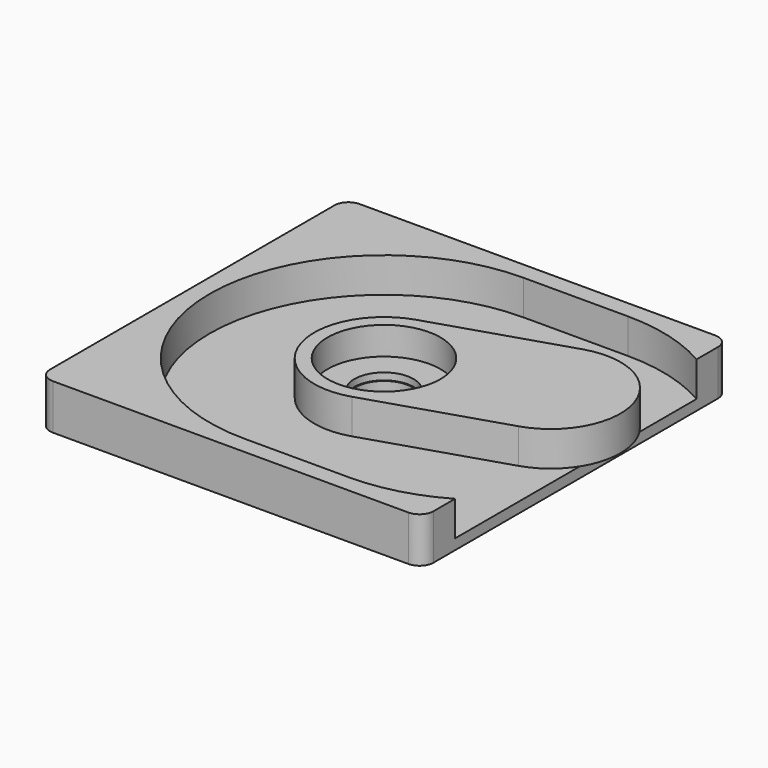
from build123d import *

# Parameters (mm, degrees)
PAD_DEPTH        = 5
HOLE_D           = 8.5
HOLE_CBORE_D     = 16.2
HOLE_CBORE_DEPTH = 4
PAD001_DEPTH     = 6.5
POCKET_DEPTH     = 5
SKETCH005_R      = 4.1
POCKET001_DEPTH  = 6.501


with BuildPart() as body:
    # Sketch001 → Pad (new body)
    with BuildSketch(Plane.XY):
        with BuildLine():
            ThreePointArc((-3.033463, 9.528804), (-9.528804, -3.033463), (3.033463, -9.528804))
            Line((3.033463, -9.528804), (22.091071, -3.461878))
            ThreePointArc((22.091071, -3.461878), (28.586412, 9.100389), (16.024145, 15.59573))
            Line((-3.033463, 9.528804), (16.024145, 15.59573))
        make_face()
    extrude(amount=PAD_DEPTH)

    # Hole (through all)
    with Locations(Plane.XY.offset(5)):
        with Locations((0, 0)):
            CounterBoreHole(HOLE_D / 2, HOLE_CBORE_D / 2, HOLE_CBORE_DEPTH)


with BuildPart() as body_1:
    # Body placement: moved
    add(body.part.moved(Location((0, 0, 1.5))))


with BuildPart() as corpo:
    # Sketch003 → Pad001 (new body)
    with BuildSketch(Plane.XY):
        with BuildLine():
            Line((-27.5, 25.5), (-27.5, -25.5))
            ThreePointArc((-27.5, -25.5), (-26.914214, -26.914214), (-25.5, -27.5))
            Line((-25.5, -27.5), (25.5, -27.5))
            ThreePointArc((25.5, -27.5), (26.914214, -26.914214), (27.5, -25.5))
            Line((27.5, -25.5), (27.5, 25.5))
            ThreePointArc((27.5, 25.5), (26.914214, 26.914214), (25.5, 27.5))
            Line((25.5, 27.5), (-25.5, 27.5))
            ThreePointArc((-25.5, 27.5), (-26.914214, 26.914214), (-27.5, 25.5))
        make_face()
    extrude(amount=PAD001_DEPTH)

    # Sketch004 → Pocket (cut)
    with BuildSketch(Plane.XY.offset(6.5)):
        with BuildLine():
            ThreePointArc((0, 25), (-25, 0), (0, -25))
            Line((0, -25), (15, -25))
            ThreePointArc((15, -25), (40, 2.9e-05), (14.999942, 25))
            Line((14.999942, 25), (0, 25))
        make_face()
    extrude(amount=-POCKET_DEPTH, mode=Mode.SUBTRACT)

    # Sketch005 → Pocket001 (cut, through all)
    with BuildSketch(Plane.XY):
        Circle(SKETCH005_R)
    extrude(amount=POCKET001_DEPTH, mode=Mode.SUBTRACT)


solid = Compound([body_1.part, corpo.part])
